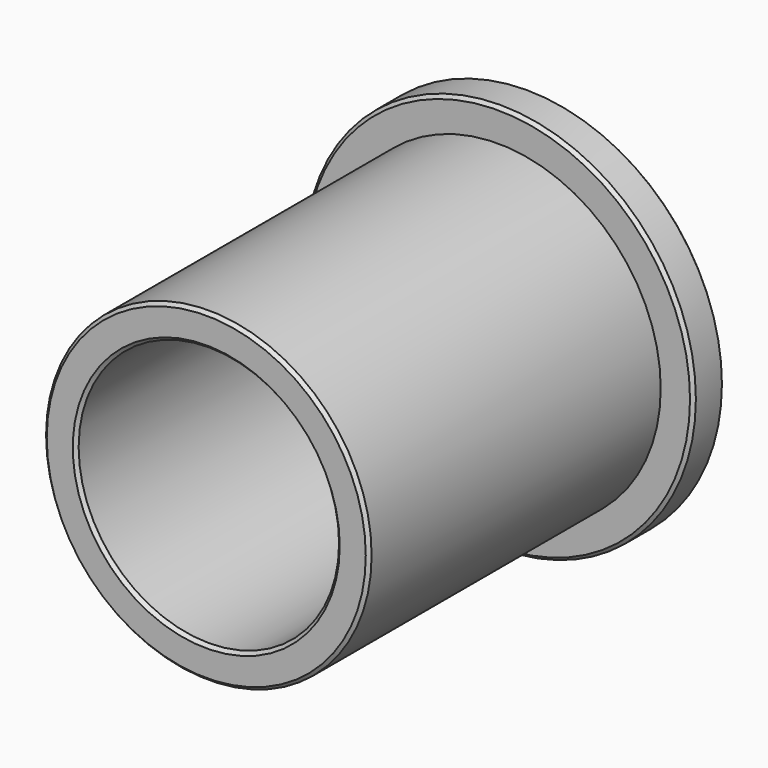
from build123d import *

# Parameters (mm, degrees)
F0_R     = 15
F0_R_2   = 12.5
F1_DEPTH = 3
F0_R_3   = 10
F2_DEPTH = 31
F3_SIZE  = 0.25


with BuildPart() as f1:
    # F0 (on Front) → F1 (new body)
    with BuildSketch(Plane.XZ):
        Circle(F0_R)
        Circle(F0_R_2, mode=Mode.SUBTRACT)
    extrude(amount=F1_DEPTH)

    # F0 (on Front) → F2 (join)
    with BuildSketch(Plane.XZ):
        Circle(F0_R_2)
        Circle(F0_R_3, mode=Mode.SUBTRACT)
    extrude(amount=F2_DEPTH)

    # F3
    f3_edges = [f1.edges().sort_by_distance(p)[0] for p in [
        (-12.5, -31, 0),
        (-10, -31, 0),
        (-15, 0, 0),
        (-10, 0, 0),
        (-15, -3, 0),
    ]]
    chamfer(f3_edges, length=F3_SIZE)


solid = f1.part
